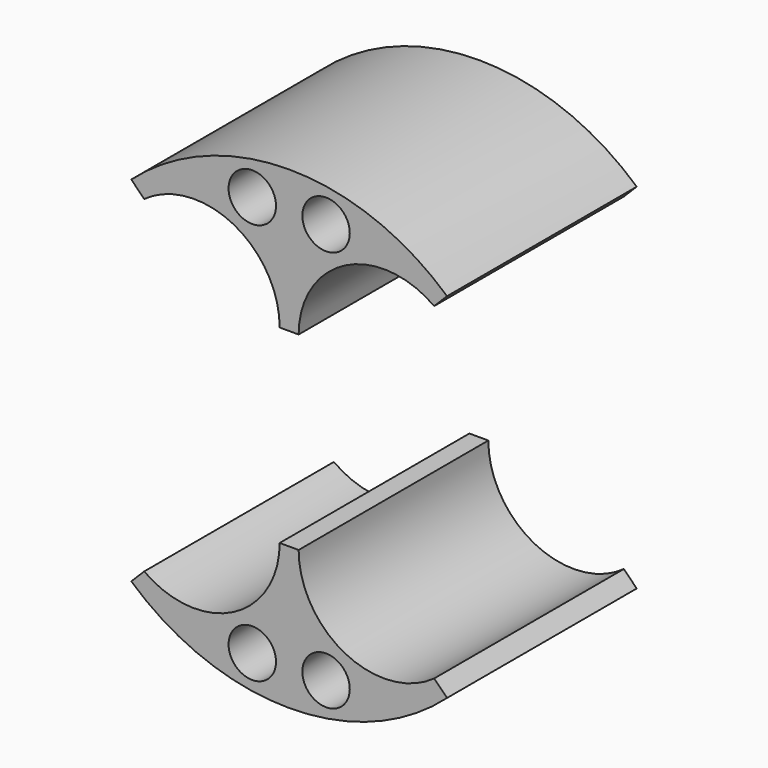
from build123d import *

# Parameters (mm, degrees)
F0_R     = 25
F1_DEPTH = 25
F2_R     = 9
F3_DEPTH = 27.8
F5_DEPTH = 27.8
F6_R     = 2.5
F7_DEPTH = 45.7


with BuildPart() as f1:
    # F0 (on Front) → F1 (new body)
    with BuildSketch(Plane.XZ):
        Circle(F0_R)
    extrude(amount=F1_DEPTH)

    # F2 (on Front) → F3 (cut)
    with BuildSketch(Plane.XZ):
        with Locations((10, 10)):
            Circle(F2_R)
        with Locations((10, -10)):
            Circle(F2_R)
        with Locations((-10, 10)):
            Circle(F2_R)
        with Locations((-10, -10)):
            Circle(F2_R)
    extrude(amount=F3_DEPTH, mode=Mode.SUBTRACT)

    # F4 (on Front) → F5 (cut)
    with BuildSketch(Plane.XZ):
        Polygon((29.275397, 31.275397), (8, 10), (-8, 10), (-29.194527, 31.194527), (-29.194527, -31.194527), (-8, -10), (8, -10), (28.106605, -30.106605), align=None)
    extrude(amount=F5_DEPTH, mode=Mode.SUBTRACT)

    # F6 (on Front) → F7 (cut)
    with BuildSketch(Plane.XZ):
        with Locations((-3.889734, 21.162739)):
            Circle(F6_R)
        with Locations((3.889734, 21.162739)):
            Circle(F6_R)
        with Locations((3.889734, -21.162739)):
            Circle(F6_R)
        with Locations((-3.889734, -21.162739)):
            Circle(F6_R)
    extrude(amount=F7_DEPTH, mode=Mode.SUBTRACT)


solid = f1.part
